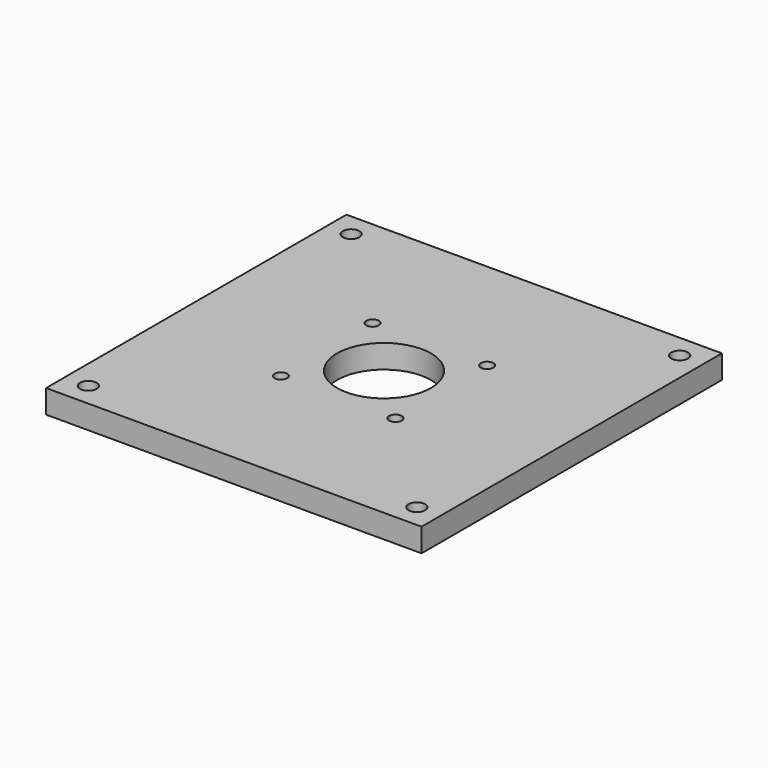
from build123d import *

# Parameters (mm, degrees)
F0_W     = 101.6
F0_H     = 101.6
F0_R     = 2.2479
F0_R_2   = 1.7
F0_R_3   = 12.7
F1_DEPTH = 6.35


with BuildPart() as f1:
    # F0 (on Top) → F1 (new body)
    with BuildSketch(Plane.XY):
        Rectangle(F0_W, F0_H)
        with Locations((-44.45, -44.45)):
            Circle(F0_R, mode=Mode.SUBTRACT)
        with Locations((-15.5, -15.5)):
            Circle(F0_R_2, mode=Mode.SUBTRACT)
        Circle(F0_R_3, mode=Mode.SUBTRACT)
        with Locations((44.45, -44.45)):
            Circle(F0_R, mode=Mode.SUBTRACT)
        with Locations((15.5, -15.5)):
            Circle(F0_R_2, mode=Mode.SUBTRACT)
        with Locations((-15.5, 15.5)):
            Circle(F0_R_2, mode=Mode.SUBTRACT)
        with Locations((-44.45, 44.45)):
            Circle(F0_R, mode=Mode.SUBTRACT)
        with Locations((15.5, 15.5)):
            Circle(F0_R_2, mode=Mode.SUBTRACT)
        with Locations((44.45, 44.45)):
            Circle(F0_R, mode=Mode.SUBTRACT)
    extrude(amount=F1_DEPTH)


solid = f1.part
